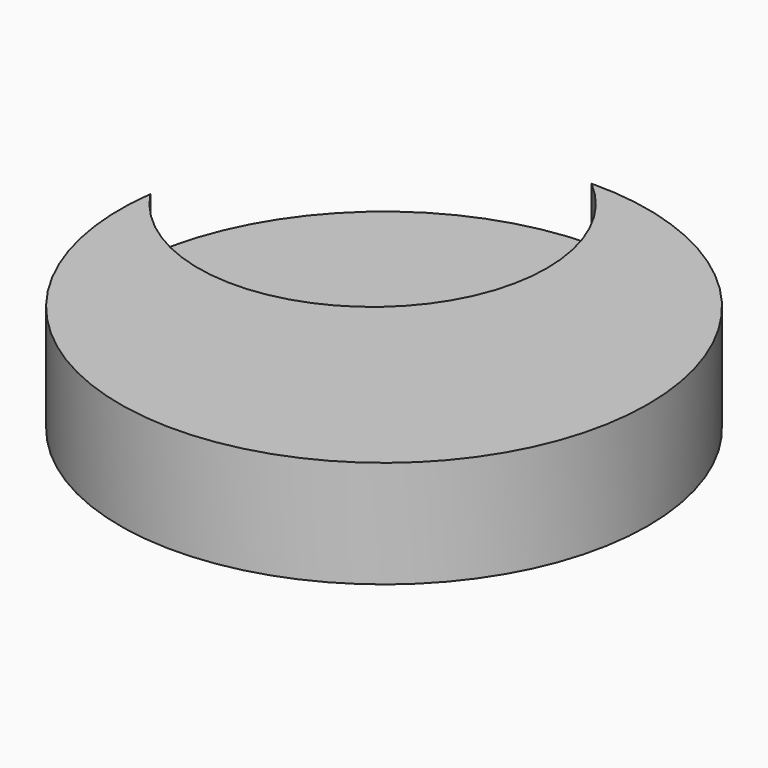
from build123d import *

# Parameters (mm, degrees)
F0_R     = 62.635171
F1_DEPTH = 12.7
F3_DEPTH = 12.7


with BuildPart() as f1:
    # F0 (on Top) → F1 (new body, symmetric)
    with BuildSketch(Plane.XY):
        Circle(F0_R)
    extrude(amount=F1_DEPTH, both=True)

    # F2 (on face) → F3 (cut, symmetric)
    with BuildSketch(Plane.XY.offset(12.7)):
        with BuildLine():
            ThreePointArc((-62.084642, 8.286243), (-41.587534, 46.836328), (-0.88331, 62.628942))
            ThreePointArc((-0.88331, 62.628942), (-54.933436, 61.866626), (-62.084642, 8.286243))
        make_face()
        with BuildLine():
            ThreePointArc((-62.084642, 8.286243), (-15.650946, -8.711081), (13.901029, 30.933313))
            ThreePointArc((13.901029, 30.933313), (10.023188, 48.420377), (-0.88331, 62.628942))
            ThreePointArc((-0.88331, 62.628942), (-41.587534, 46.836328), (-62.084642, 8.286243))
        make_face()
    extrude(amount=F3_DEPTH, both=True, mode=Mode.SUBTRACT)


solid = f1.part
